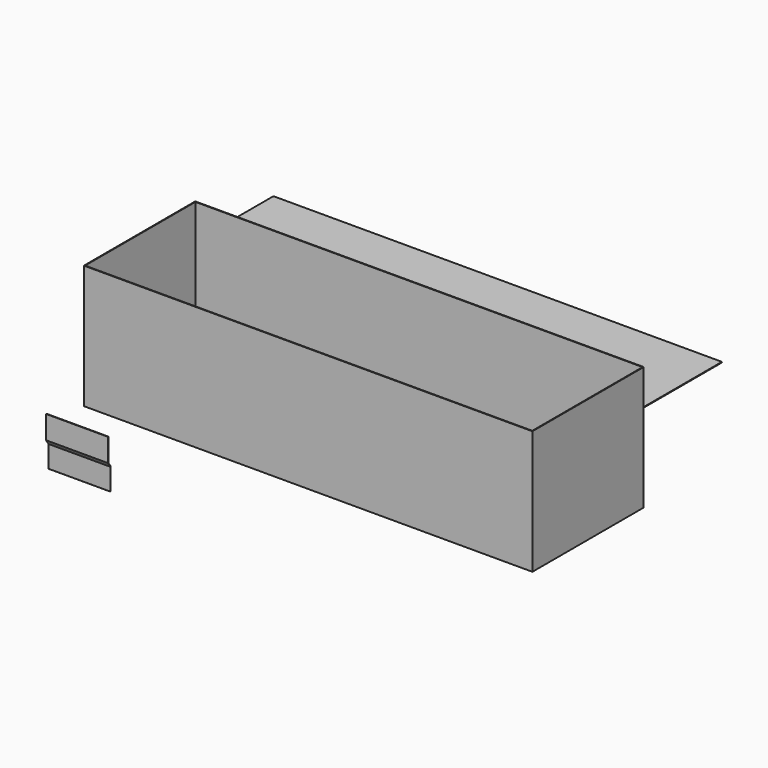
from build123d import *

# Parameters (mm, degrees)
F0_W     = 4419.6
F0_H     = 1371.6
F0_W_2   = 4406.9
F0_H_2   = 1358.9
F1_DEPTH = 1219.2
F2_W     = 4419.6
F2_H     = 1371.6
F3_DEPTH = 6.35
F5_DEPTH = 609.6
F7_DEPTH = 12.7


with BuildPart() as f1:
    # F0 (on Top) → F1 (new body)
    with BuildSketch(Plane.XY):
        with Locations((2029.357997, 532.430415)):
            Rectangle(F0_W, F0_H)
        with Locations((2029.357997, 532.430415)):
            Rectangle(F0_W_2, F0_H_2, mode=Mode.SUBTRACT)
    extrude(amount=F1_DEPTH)


with BuildPart() as f3:
    # F2 (on Top) → F3 (new body)
    with BuildSketch(Plane.XY):
        with Locations((989.555538, 2795.171261)):
            Rectangle(F2_W, F2_H)
    extrude(amount=F3_DEPTH)


with BuildPart() as f5:
    # F4 (on Right) → F5 (new body)
    with BuildSketch(Plane.YZ):
        with BuildLine():
            Line((-815.817473, 0), (-815.817473, -214.376))
            ThreePointArc((-815.817473, -214.376), (-815.371104, -215.453631), (-814.293473, -215.9))
            Line((-814.293473, -215.9), (-812.515473, -215.9))
            ThreePointArc((-812.515473, -215.9), (-811.437842, -215.453631), (-810.991473, -214.376))
            Line((-810.991473, -214.376), (-810.991473, 1.446167))
            Line((-810.991473, 1.446167), (-840.259573, 45.896167))
            Line((-840.259573, 45.896167), (-840.259573, 271.526))
            ThreePointArc((-840.259573, 271.526), (-840.705942, 272.603631), (-841.783573, 273.05))
            Line((-841.783573, 273.05), (-843.561573, 273.05))
            ThreePointArc((-843.561573, 273.05), (-844.639203, 272.603631), (-845.085573, 271.526))
            Line((-845.085573, 271.526), (-845.085573, 44.45))
            Line((-845.085573, 44.45), (-815.817473, 0))
        make_face()
    extrude(amount=F5_DEPTH)


with BuildPart() as f7:
    # F6 (on Right) → F7 (new body)
    with BuildSketch(Plane.YZ):
        with BuildLine():
            ThreePointArc((-222.017714, -563.456333), (-221.720134, -564.174753), (-221.001714, -564.472333))
            Line((-221.001714, -564.472333), (-211.921214, -564.472333))
            ThreePointArc((-211.921214, -564.472333), (-211.202793, -564.174753), (-210.905214, -563.456333))
            Line((-210.905214, -563.456333), (-210.905214, -347.556333))
            ThreePointArc((-210.905214, -347.556333), (-209.045342, -343.066205), (-204.555214, -341.206333))
            Line((-204.555214, -341.206333), (-179.155214, -341.206333))
            ThreePointArc((-179.155214, -341.206333), (-174.665086, -343.066205), (-172.805214, -347.556333))
            Line((-172.805214, -347.556333), (-172.805214, -442.806333))
            ThreePointArc((-172.805214, -442.806333), (-170.945342, -447.296461), (-166.455214, -449.156333))
            Line((-166.455214, -449.156333), (-155.279214, -449.156333))
            ThreePointArc((-155.279214, -449.156333), (-150.789086, -447.296461), (-148.929214, -442.806333))
            Line((-148.929214, -442.806333), (-148.929214, -341.206333))
            Line((-148.929214, -341.206333), (-148.929214, -315.7751))
            ThreePointArc((-148.929214, -315.7751), (-191.955815, -293.389133), (-235.008121, -315.725624))
            Line((-235.008121, -315.725624), (-235.008121, -464.950624))
            ThreePointArc((-235.008121, -464.950624), (-234.078185, -467.195688), (-231.833121, -468.125624))
            Line((-231.833121, -468.125624), (-225.192714, -468.125624))
            ThreePointArc((-225.192714, -468.125624), (-222.94765, -469.05556), (-222.017714, -471.300624))
            Line((-222.017714, -471.300624), (-222.017714, -563.456333))
        make_face()
    extrude(amount=F7_DEPTH)


solid = Compound([f1.part, f3.part, f5.part, f7.part])
